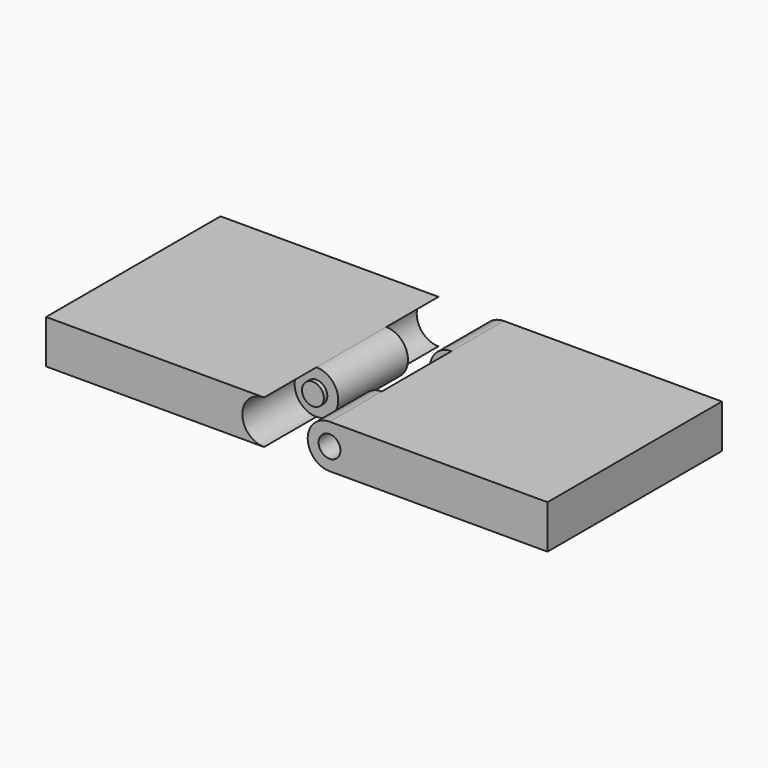
from build123d import *

# Parameters (mm, degrees)
SKETCH004_R         = 1
PAD004_DEPTH        = 3
SKETCH005_R         = 1
PAD005_DEPTH        = 3
SKETCH003_R         = 1
PAD003_DEPTH        = 4
SKETCH002_W         = 10
SKETCH002_H         = 2
PAD002_DEPTH        = 10
SKETCH007_R         = 0.5
PAD006_DEPTH        = 0.2
SKETCH008_R         = 0.5
PAD007_DEPTH        = 0.2
SKETCH001_R         = 1
SKETCH001_R_2       = 0.5
PAD_DEPTH           = 4
CYLINDER_R          = 1
CYLINDER_DEPTH      = 10
CYLINDER_ROLL_ANGLE = 90
BOX_W               = 10
BOX_H               = 10
BOX_DEPTH           = 2
SKETCH_R            = 1
SKETCH_R_2          = 0.5
PAD008_DEPTH        = 10


with BuildPart() as pad004:
    # Sketch004 → Pad004 (new body)
    with BuildSketch(Plane.XZ):
        with Locations((-3, 1)):
            Circle(SKETCH004_R)
    extrude(amount=-PAD004_DEPTH)


with BuildPart() as pad005:
    # Sketch005 → Pad005 (new body)
    with BuildSketch(Plane.XZ.offset(-7)):
        with Locations((-3, 1)):
            Circle(SKETCH005_R)
    extrude(amount=-PAD005_DEPTH)


with BuildPart() as pad003:
    # Sketch003 → Pad003 (new body)
    with BuildSketch(Plane.XZ.offset(-3)):
        with Locations((-3, 1)):
            Circle(SKETCH003_R)
    extrude(amount=-PAD003_DEPTH)


with BuildPart() as cut002:
    # Sketch002 → Pad002 (new body)
    with BuildSketch(Plane(origin=(-3, 0, 0), x_dir=(1, 0, 0), z_dir=(0, -1, 0))):
        with Locations((-5, 1)):
            Rectangle(SKETCH002_W, SKETCH002_H)
    extrude(amount=-PAD002_DEPTH)

    # Fusion001: union Pad003
    add(pad003.part)

    # Cut001: cut Pad005
    add(pad005.part, mode=Mode.SUBTRACT)

    # Cut002: cut Pad004
    add(pad004.part, mode=Mode.SUBTRACT)


with BuildPart() as pad006:
    # Sketch007 → Pad006 (new body)
    with BuildSketch(Plane.XZ.offset(-3)):
        with Locations((-3, 1)):
            Circle(SKETCH007_R)
    extrude(amount=PAD006_DEPTH)


with BuildPart() as pad007:
    # Sketch008 → Pad007 (new body)
    with BuildSketch(Plane(origin=(0, 7, 0), x_dir=(-1, 0, 0), z_dir=(0, 1, 0))):
        with Locations((3, 1)):
            Circle(SKETCH008_R)
    extrude(amount=PAD007_DEPTH)


with BuildPart() as pad:
    # Sketch001 → Pad (new body)
    with BuildSketch(Plane.XZ.offset(-3)):
        with Locations((0, 1)):
            Circle(SKETCH001_R)
        with Locations((0, 1)):
            Circle(SKETCH001_R_2, mode=Mode.SUBTRACT)
    extrude(amount=-PAD_DEPTH)


with BuildPart() as cylinder:
    # Cylinder → Cylinder (new body)
    with BuildSketch(Plane.XY):
        Circle(CYLINDER_R)
    extrude(amount=CYLINDER_DEPTH)


with BuildPart() as cylinder_1:
    # Cylinder roll: moved
    add(cylinder.part.rotate(Axis((0, 0, 0), (1, 0, 0)), CYLINDER_ROLL_ANGLE))


with BuildPart() as cylinder_2:
    # Cylinder placement: moved
    add(cylinder_1.part.moved(Location((0, 10, 1))))


with BuildPart() as cut:
    # Box → Box (new body)
    with BuildSketch(Plane.XY):
        with Locations((5, 5)):
            Rectangle(BOX_W, BOX_H)
    extrude(amount=BOX_DEPTH)

    # Cut: cut Cylinder
    add(cylinder_2.part, mode=Mode.SUBTRACT)


with BuildPart() as cut003:
    # Sketch → Pad008 (new body)
    with BuildSketch(Plane.XZ):
        with Locations((0, 1)):
            Circle(SKETCH_R)
        with Locations((0, 1)):
            Circle(SKETCH_R_2, mode=Mode.SUBTRACT)
    extrude(amount=-PAD008_DEPTH)

    # Fusion: union Cut
    add(cut.part)

    # Cut003: cut Pad
    add(pad.part, mode=Mode.SUBTRACT)


solid = Compound([cut002.part, pad006.part, pad007.part, cut003.part])
